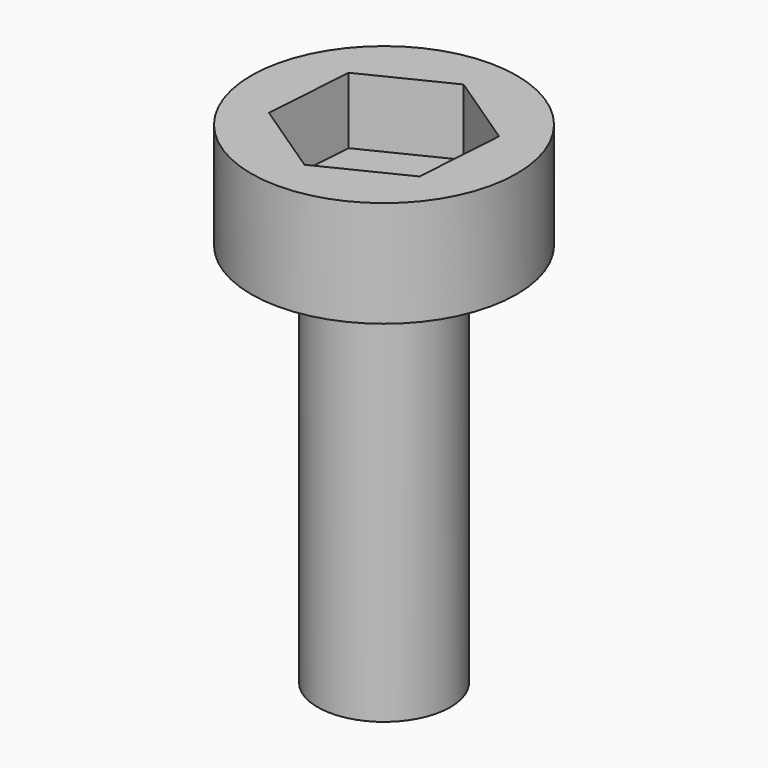
from build123d import *

# Parameters (mm, degrees)
F3_DEPTH = 2.5


with BuildPart() as f1:
    # F0 (on Front) → F1 (revolve)
    with BuildSketch(Plane.XZ):
        Polygon((5.667086, 8.976137), (3.167086, 8.976137), (3.167086, -9.523863), (5.667086, -9.523863), (5.667086, 4.976137), (8.167086, 4.976137), (8.167086, 8.976137), align=None)
    revolve(axis=Axis((3.167086, 0, 1.163182), (0, 0, -1)))

    # F2 (on face) → F3 (cut)
    with BuildSketch(Plane.XY.offset(8.976137)):
        Polygon((2.937124, -3.45646), (6.045487, -1.927383), (6.275449, 1.529077), (3.397048, 3.45646), (0.288685, 1.927383), (0.058723, -1.529077), align=None)
    extrude(amount=-F3_DEPTH, mode=Mode.SUBTRACT)


solid = f1.part
